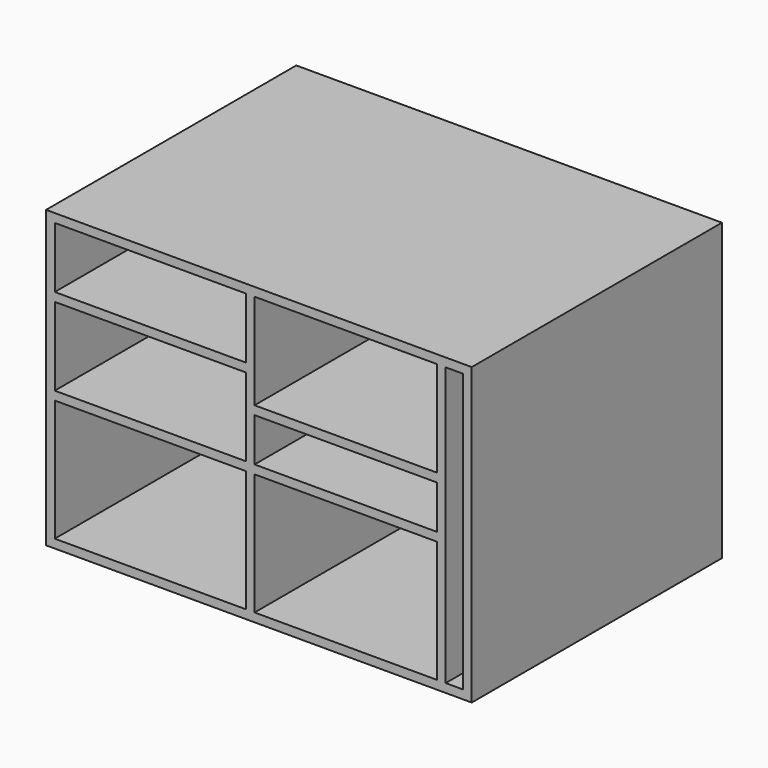
from build123d import *

# Parameters (mm, degrees)
F0_W      = 1244.6
F0_H      = 863.6
F1_DEPTH  = 914.4
F2_W      = 558.8
F2_H      = 355.6
F3_DEPTH  = 889
F4_W      = 558.8
F4_H      = 228.6
F5_DEPTH  = 889
F6_W      = 558.8
F6_H      = 177.8
F7_DEPTH  = 438.15
F8_W      = 558.8
F8_H      = 127
F9_DEPTH  = 438.15
F10_W     = 533.4
F10_H     = 127
F11_DEPTH = 914.4
F12_W     = 533.4
F12_H     = 355.6
F13_DEPTH = 914.4
F14_W     = 50.8
F14_H     = 812.8
F15_DEPTH = 889
F16_W     = 520.7
F16_H     = 279.4
F16_W_2   = 12.7
F17_DEPTH = 889


with BuildPart() as f1:
    # F0 (on Front) → F1 (new body)
    with BuildSketch(Plane.XZ):
        Rectangle(F0_W, F0_H)
    extrude(amount=-F1_DEPTH)

    # F2 (on face) → F3 (cut)
    with BuildSketch(Plane.XZ):
        with Locations((-317.5, -228.6)):
            Rectangle(F2_W, F2_H)
    extrude(amount=-F3_DEPTH, mode=Mode.SUBTRACT)

    # F4 (on face) → F5 (cut)
    with BuildSketch(Plane.XZ):
        with Locations((-317.5, 88.9)):
            Rectangle(F4_W, F4_H)
    extrude(amount=-F5_DEPTH, mode=Mode.SUBTRACT)

    # F6 (on face) → F7 (cut)
    with BuildSketch(Plane.XZ):
        with Locations((-317.5, 317.5)):
            Rectangle(F6_W, F6_H)
    extrude(amount=-F7_DEPTH, mode=Mode.SUBTRACT)

    # F8 (on face) → F9 (cut)
    with BuildSketch(Plane(origin=(0, 914.4, 0), x_dir=(-1, 0, 0), z_dir=(0, 1, 0))):
        with Locations((317.5, 342.9)):
            Rectangle(F8_W, F8_H)
    extrude(amount=-F9_DEPTH, mode=Mode.SUBTRACT)

    # F10 (on face) → F11 (cut)
    with BuildSketch(Plane.XZ):
        with Locations((254, 38.1)):
            Rectangle(F10_W, F10_H)
    extrude(amount=-F11_DEPTH, mode=Mode.SUBTRACT)

    # F12 (on face) → F13 (cut)
    with BuildSketch(Plane.XZ):
        with Locations((254, -228.6)):
            Rectangle(F12_W, F12_H)
    extrude(amount=-F13_DEPTH, mode=Mode.SUBTRACT)

    # F14 (on face) → F15 (cut)
    with BuildSketch(Plane.XZ):
        with Locations((571.5, 0)):
            Rectangle(F14_W, F14_H)
    extrude(amount=-F15_DEPTH, mode=Mode.SUBTRACT)

    # F16 (on face) → F17 (cut)
    with BuildSketch(Plane.XZ):
        with Locations((260.35, 266.7)):
            Rectangle(F16_W, F16_H)
        with Locations((-6.35, 266.7)):
            Rectangle(F16_W_2, F16_H)
    extrude(amount=-F17_DEPTH, mode=Mode.SUBTRACT)


solid = f1.part
